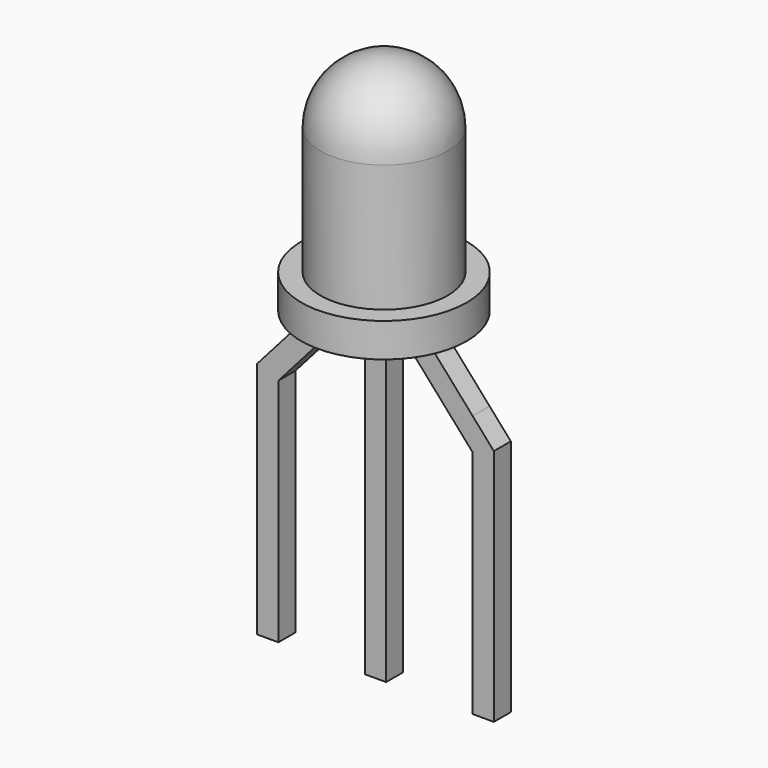
from build123d import *

# Parameters (mm, degrees)
F0_R          = 1.95
F1_DEPTH      = 0.8
F2_R          = 1.5
F3_DEPTH      = 4.5
F4_R          = 1.5
F6_DEPTH      = 0.25
F6_DEPTH_BACK = 0.25


with BuildPart() as f1:
    # F0 (on Top) → F1 (new body)
    with BuildSketch(Plane.XY):
        Circle(F0_R)
    extrude(amount=F1_DEPTH)

    # F2 (on face) → F3 (join)
    with BuildSketch(Plane.XY.offset(0.8)):
        Circle(F2_R)
    extrude(amount=F3_DEPTH)

    # F4
    f4_edges = [f1.edges().sort_by_distance(p)[0] for p in [
        (-1.5, 0, 5.3),
    ]]
    fillet(f4_edges, radius=F4_R)

    # F5 (on Front) → F6 (join, two sides)
    with BuildSketch(Plane.XZ) as f6_sk:
        Polygon((-2.29, -1.340597), (-2.54, -1.623856), (-2.54, -7.528054), (-2.29, -7.528054), (-2.29, -2.096204), align=None)
        Polygon((-2.54, -7.528054), (-2.54, -1.623856), (-2.79, -1.907115), (-2.79, -7.528054), align=None)
        Polygon((-1.106809, 0), (-2.29, -1.340597), (-2.29, -2.096204), (-0.731933, -0.33086), (-0.25, -0.33086), (0.25, -0.33086), (0.731933, -0.33086), (2.29, -2.096204), (2.29, -1.340597), (1.106809, 0), align=None)
        Polygon((0.25, -0.33086), (-0.25, -0.33086), (-0.25, -7.528054), (0, -7.528054), (0.25, -7.528054), align=None)
        Polygon((2.54, -1.623856), (2.29, -1.340597), (2.29, -2.096204), (2.29, -7.528054), (2.54, -7.528054), align=None)
        Polygon((2.79, -1.907115), (2.54, -1.623856), (2.54, -7.528054), (2.79, -7.528054), align=None)
    extrude(amount=F6_DEPTH)
    extrude(f6_sk.sketch, amount=-F6_DEPTH_BACK)


solid = f1.part
